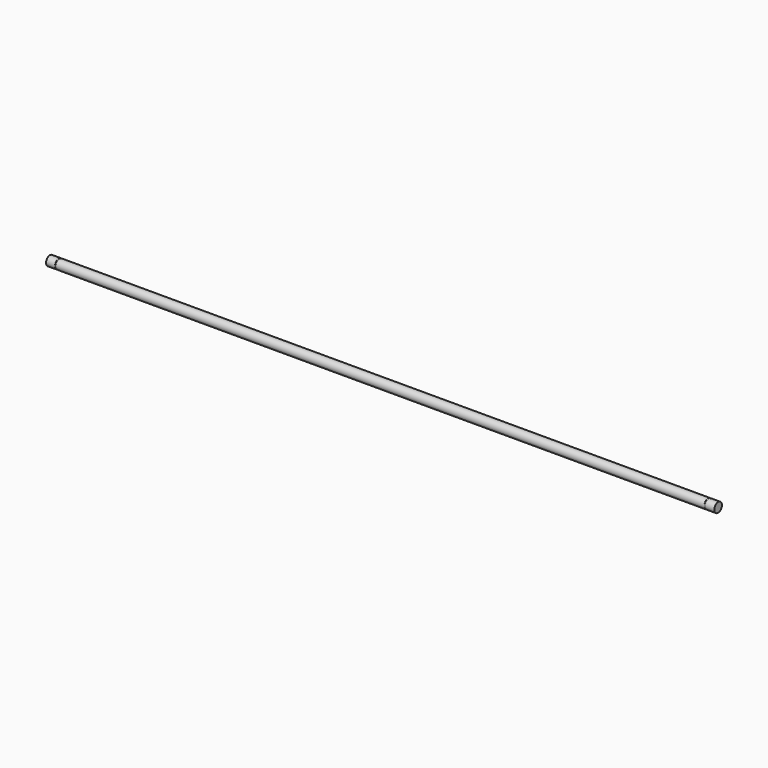
from build123d import *

# Parameters (mm, degrees)
F0_R     = 5
F1_DEPTH = 350
F2_W     = 1.1
F2_H     = 1


with BuildPart() as f1:
    # F0 (on Right) → F1 (new body, symmetric)
    with BuildSketch(Plane.YZ):
        Circle(F0_R)
    extrude(amount=F1_DEPTH, both=True)

    # F2 (on Front) → F3 (revolve, cut)
    with BuildSketch(Plane.XZ):
        with Locations((340.05, 5.3)):
            Rectangle(F2_W, F2_H)
        with Locations((-340.05, 5.3)):
            Rectangle(F2_W, F2_H)
    revolve(axis=Axis((186.2977445126, 0, 0), (1, 0, 0)), mode=Mode.SUBTRACT)


solid = f1.part
